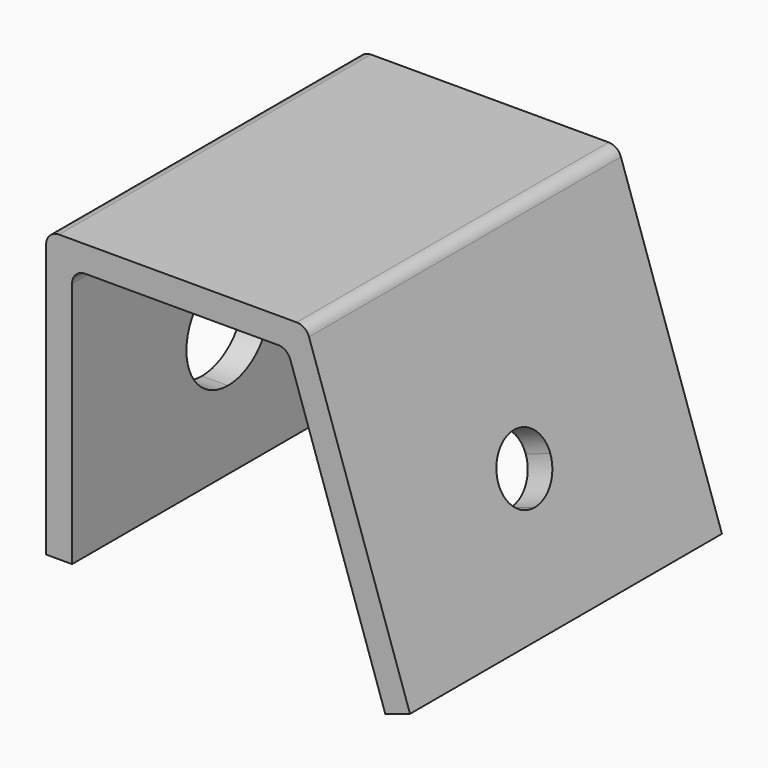
from build123d import *

# Parameters (mm, degrees)
F1_DEPTH = 30
F2_R     = 1
F5_DEPTH = 3
F6_DEPTH = 3


with BuildPart() as f1:
    # F0 (on Front) → F1 (new body)
    with BuildSketch(Plane.XZ):
        Polygon((18, -12.6854385647), (10, 11), (-10, 11), (-10, -11), (-8, -11), (-8, 9), (8.5645188749, 9), (16.1051649148, -13.3254385647), align=None)
    extrude(amount=F1_DEPTH)

    # F2
    f2_edges = [f1.edges().sort_by_distance(p)[0] for p in [
        (10, -15, 11),
        (-10, -15, 11),
        (-8, -15, 9),
        (8.564519, -15, 9),
    ]]
    fillet(f2_edges, radius=F2_R)

    # F3 (on face) → F5 (cut)
    with BuildSketch(Plane(origin=(12.3109097499, 0, 4.1581361363), x_dir=(0, 1, 0), z_dir=(0.9474175426, 0, 0.32))):
        with BuildLine():
            ThreePointArc((-12.5, -7.7784070316), (-16.767766953, -6.0106400786), (-15, -10.2784070316))
            ThreePointArc((-15, -10.2784070316), (-13.232233047, -9.5461739845), (-12.5, -7.7784070316))
        make_face()
    extrude(amount=-F5_DEPTH, mode=Mode.SUBTRACT)

    # F4 (on face) → F6 (cut)
    with BuildSketch(Plane(origin=(-10, 0, 0), x_dir=(0, -1, 0), z_dir=(-1, 0, 0))):
        with BuildLine():
            ThreePointArc((19, -1), (12.1715728753, 1.8284271247), (15, -5))
            ThreePointArc((15, -5), (17.8284271247, -3.8284271247), (19, -1))
        make_face()
    extrude(amount=-F6_DEPTH, mode=Mode.SUBTRACT)


solid = f1.part
